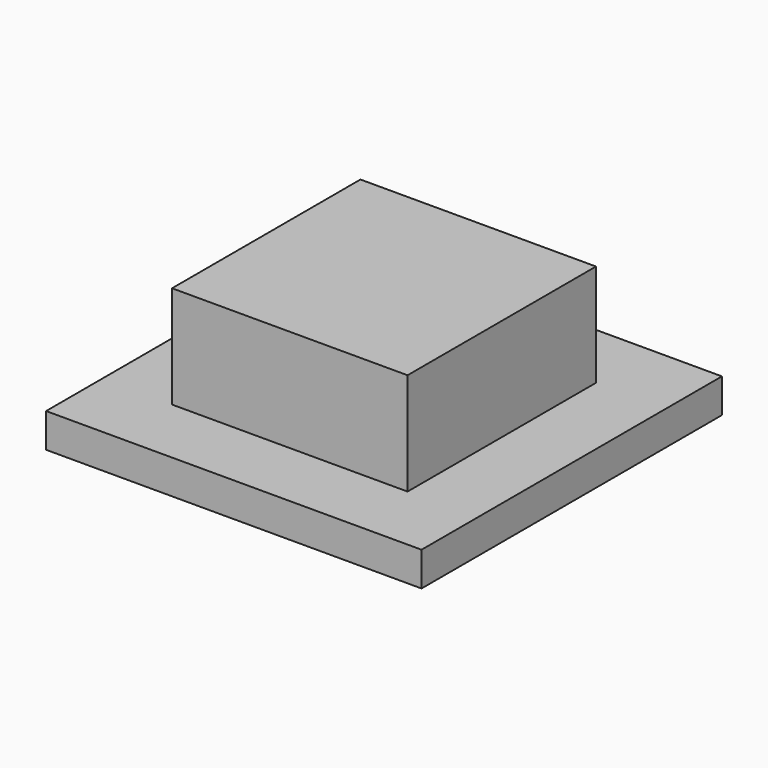
from build123d import *

# Parameters (mm, degrees)
F0_W     = 110
F0_H     = 110
F0_W_2   = 69
F0_H_2   = 69
F1_DEPTH = 10
F2_DEPTH = 40


with BuildPart() as f1:
    # F0 (on Top) → F1 (new body)
    with BuildSketch(Plane.XY):
        with Locations((55, 55)):
            Rectangle(F0_W, F0_H)
        with Locations((55, 55)):
            Rectangle(F0_W_2, F0_H_2, mode=Mode.SUBTRACT)
        with Locations((55, 55)):
            Rectangle(F0_W, F0_H)
        with Locations((55, 55)):
            Rectangle(F0_W_2, F0_H_2, mode=Mode.SUBTRACT)
    extrude(amount=F1_DEPTH)

    # F0 (on Top) → F2 (join)
    with BuildSketch(Plane.XY):
        with Locations((55, 55)):
            Rectangle(F0_W_2, F0_H_2)
    extrude(amount=F2_DEPTH)


solid = f1.part
